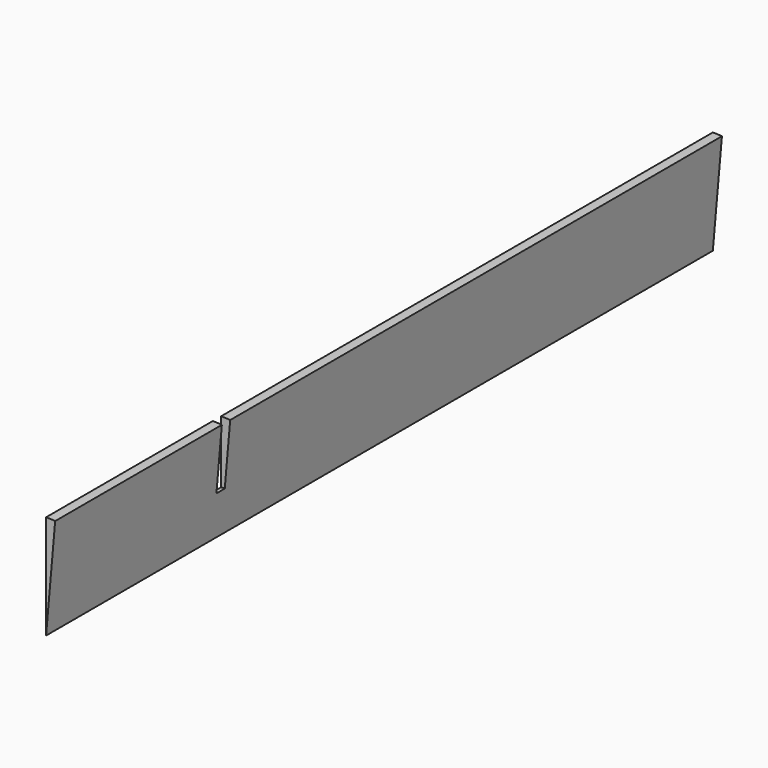
from build123d import *

# Parameters (mm, degrees)
F0_R     = 250
F2_DEPTH = 500
F1_R     = 250
F1_W     = 200
F1_H     = 200
F3_DEPTH = 1500
F1_W_2   = 959.411026
F1_H_2   = 659
F4_DEPTH = 25
F6_DEPTH = 2000


with BuildPart() as f2:
    # F0 (on Front) → F2 (new body)
    with BuildSketch(Plane.XZ):
        Circle(F0_R)
    extrude(amount=F2_DEPTH)

    # F1 (on face) → F3 (join)
    with BuildSketch(Plane.XZ):
        Circle(F1_R)
        Rectangle(F1_W, F1_H, mode=Mode.SUBTRACT)
        Rectangle(F1_W, F1_H)
    extrude(amount=-F3_DEPTH)

    # F1 (on face) → F4 (cut)
    with BuildSketch(Plane.XZ):
        Rectangle(F1_W_2, F1_H_2)
        Rectangle(F1_W, F1_H, mode=Mode.SUBTRACT)
    extrude(amount=-F4_DEPTH, mode=Mode.SUBTRACT)

    # F5 (on face) → F6 (intersect)
    with BuildSketch(Plane.XZ.offset(500)):
        with BuildLine():
            Line((0, 250), (0, 0))
            Line((0, 0), (21.788936, 249.048675))
            ThreePointArc((21.788936, 249.048675), (10.904847, 249.762055), (0, 250))
        make_face()
    extrude(amount=-F6_DEPTH, mode=Mode.INTERSECT)


solid = f2.part
